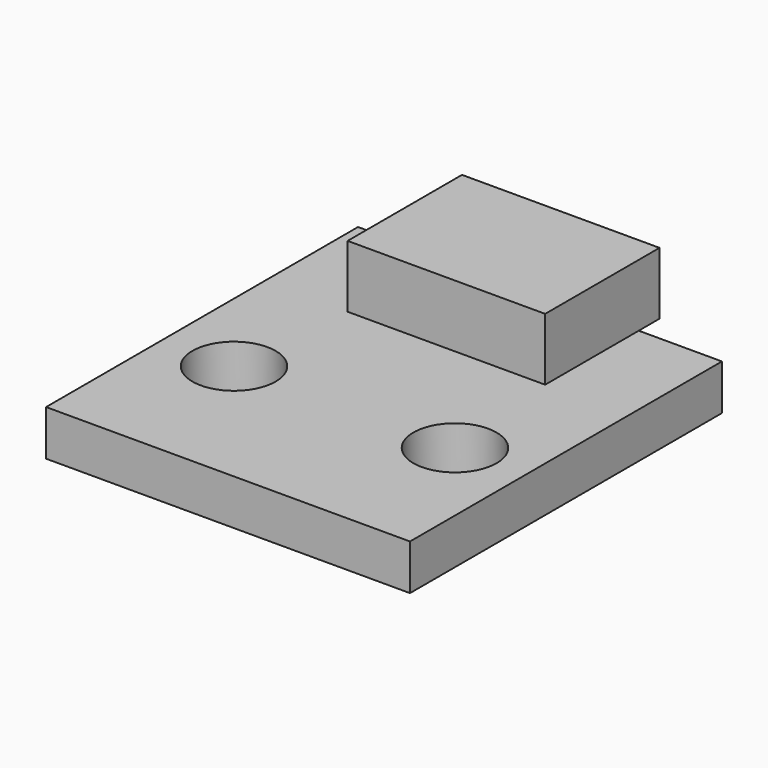
from build123d import *

# Parameters (mm, degrees)
SKETCH_W     = 14
SKETCH_H     = 15
PAD_DEPTH    = 1.75
SKETCH002_R  = 1.6
POCKET_DEPTH = 5
SKETCH001_W  = 7.6
SKETCH001_H  = 5.5
PAD001_DEPTH = 2.4


with BuildPart() as body:
    # Sketch → Pad (new body)
    with BuildSketch(Plane.XY):
        Rectangle(SKETCH_W, SKETCH_H)
    extrude(amount=PAD_DEPTH)

    # Sketch002 (on Face6 of Pad) → Pocket (cut)
    with BuildSketch(Plane.XY.offset(1.75)):
        with Locations((-4.25, -1.9)):
            Circle(SKETCH002_R)
        with Locations((4.25, -1.9)):
            Circle(SKETCH002_R)
    extrude(amount=-POCKET_DEPTH, mode=Mode.SUBTRACT)


with BuildPart() as body001:
    # Sketch001 (on Face1 of CopyPad) → Pad001 (new body)
    with BuildSketch(Plane.XY.offset(1.75)):
        with Locations((0, 5.75)):
            Rectangle(SKETCH001_W, SKETCH001_H)
    extrude(amount=PAD001_DEPTH)


solid = Compound([body.part, body001.part])
